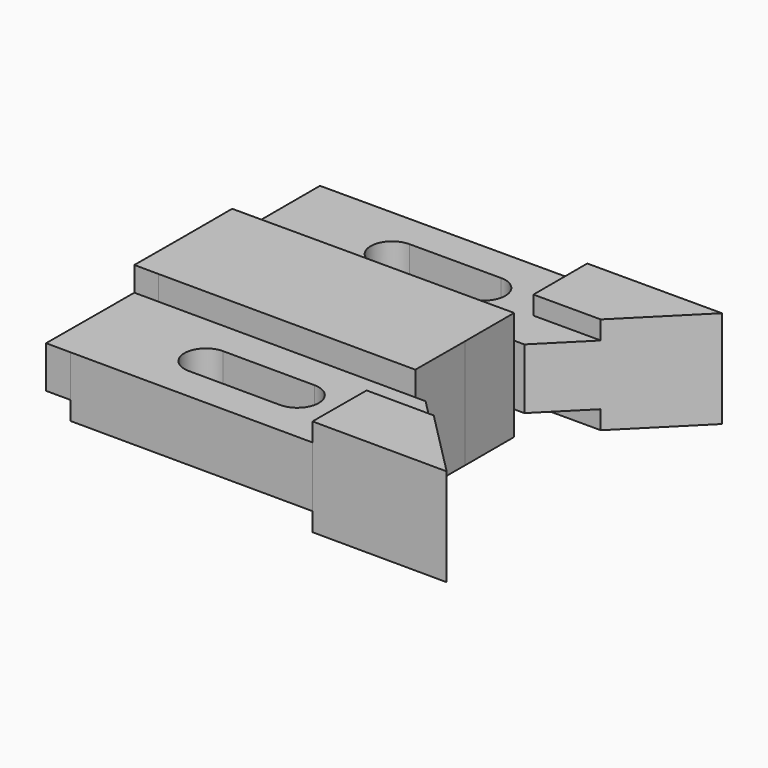
from build123d import *

# Parameters (mm, degrees)
F0_W     = 6.35
F0_H     = 28.575
F1_DEPTH = 28.448
F3_DEPTH = 1.524
F4_DEPTH = 1.524
F5_DEPTH = 6.35
F6_DEPTH = 11.176
F7_DEPTH = 11.176
F2_W     = 6.35
F2_H     = 28.575
F8_DEPTH = 6.35


with BuildPart() as f1:
    # F0 (on Top) → F1 (new body)
    with BuildSketch(Plane.XY):
        Polygon((6.53696, 60.324607), (0.18696, 60.324607), (0.18696, 44.449607), (0.120189, 28.574747), (6.470133, 28.548039), (73.525377, 28.265996), (73.592798, 44.295231), (73.592798, 60.324607), align=None)
        Polygon((69.78296, 88.899607), (6.53696, 88.899607), (6.53696, 60.324607), (73.592798, 60.324607), (76.25996, 60.324607), (87.30896, 71.373607), (69.78296, 71.373607), align=None)
        with BuildLine():
            ThreePointArc((30.41296, 69.024107), (24.82496, 74.612107), (30.41296, 80.200107))
            Line((30.41296, 80.200107), (54.28896, 80.200107))
            ThreePointArc((54.28896, 80.200107), (59.87696, 74.612107), (54.28896, 69.024107))
            Line((54.28896, 69.024107), (30.41296, 69.024107))
        make_face(mode=Mode.SUBTRACT)
        with Locations((3.36196, 74.612107)):
            Rectangle(F0_W, F0_H)
        Polygon((73.525377, 28.265996), (6.470133, 28.548039), (6.349944, -0.026709), (69.595384, -0.292727), (69.6691, 17.233118), (87.194945, 17.159402), (76.192516, 28.254778), align=None)
        with BuildLine():
            Line((54.138112, 8.471865), (30.262323, 8.57229))
            ThreePointArc((30.262323, 8.57229), (24.697876, 14.183744), (30.309331, 19.748191))
            Line((30.309331, 19.748191), (54.185119, 19.647767))
            ThreePointArc((54.185119, 19.647767), (59.749566, 14.036312), (54.138112, 8.471865))
        make_face(mode=Mode.SUBTRACT)
        Polygon((69.6691, 17.233118), (69.595384, -0.292727), (104.647074, -0.440158), (87.194945, 17.159402), align=None)
        Polygon((6.470133, 28.548039), (0.120189, 28.574747), (0, 0), (6.349944, -0.026709), align=None)
        Polygon((104.83496, 88.899607), (69.78296, 88.899607), (69.78296, 71.373607), (87.30896, 71.373607), align=None)
    extrude(amount=F1_DEPTH)

    # F2 (on face) → F3 (cut)
    with BuildSketch(Plane.XY.offset(28.448)):
        Polygon((104.647074, -0.440158), (87.194945, 17.159402), (69.6691, 17.233118), (69.595384, -0.292727), align=None)
        Polygon((69.78296, 71.373607), (87.30896, 71.373607), (104.83496, 88.899607), (69.78296, 88.899607), align=None)
        Polygon((104.647074, -0.440158), (87.194945, 17.159402), (69.6691, 17.233118), (69.595384, -0.292727), align=None)
    extrude(amount=-F3_DEPTH, mode=Mode.SUBTRACT)

    # F0 (on Top) → F4 (cut)
    with BuildSketch(Plane.XY):
        Polygon((69.6691, 17.233118), (69.595384, -0.292727), (104.647074, -0.440158), (87.194945, 17.159402), align=None)
        Polygon((104.83496, 88.899607), (69.78296, 88.899607), (69.78296, 71.373607), (87.30896, 71.373607), align=None)
    extrude(amount=F4_DEPTH, mode=Mode.SUBTRACT)

    # F0 (on Top) → F5 (cut)
    with BuildSketch(Plane.XY):
        Polygon((73.525377, 28.265996), (6.470133, 28.548039), (6.349944, -0.026709), (69.595384, -0.292727), (69.6691, 17.233118), (87.194945, 17.159402), (76.192516, 28.254778), align=None)
        with BuildLine():
            Line((54.138112, 8.471865), (30.262323, 8.57229))
            ThreePointArc((30.262323, 8.57229), (24.697876, 14.183744), (30.309331, 19.748191))
            Line((30.309331, 19.748191), (54.185119, 19.647767))
            ThreePointArc((54.185119, 19.647767), (59.749566, 14.036312), (54.138112, 8.471865))
        make_face(mode=Mode.SUBTRACT)
        Polygon((69.78296, 88.899607), (6.53696, 88.899607), (6.53696, 60.324607), (73.592798, 60.324607), (76.25996, 60.324607), (87.30896, 71.373607), (69.78296, 71.373607), align=None)
        with BuildLine():
            ThreePointArc((30.41296, 69.024107), (24.82496, 74.612107), (30.41296, 80.200107))
            Line((30.41296, 80.200107), (54.28896, 80.200107))
            ThreePointArc((54.28896, 80.200107), (59.87696, 74.612107), (54.28896, 69.024107))
            Line((54.28896, 69.024107), (30.41296, 69.024107))
        make_face(mode=Mode.SUBTRACT)
        Polygon((6.470133, 28.548039), (0.120189, 28.574747), (0, 0), (6.349944, -0.026709), align=None)
        with Locations((3.36196, 74.612107)):
            Rectangle(F0_W, F0_H)
    extrude(amount=F5_DEPTH, mode=Mode.SUBTRACT)

    # F0 (on Top) → F6 (join)
    with BuildSketch(Plane.XY):
        Polygon((6.470133, 28.548039), (0.120189, 28.574747), (0, 0), (6.349944, -0.026709), align=None)
        with Locations((3.36196, 74.612107)):
            Rectangle(F0_W, F0_H)
    extrude(amount=F6_DEPTH)

    # F0 (on Top) → F7 (cut)
    with BuildSketch(Plane.XY):
        Polygon((6.470133, 28.548039), (0.120189, 28.574747), (0, 0), (6.349944, -0.026709), align=None)
        with Locations((3.36196, 74.612107)):
            Rectangle(F0_W, F0_H)
    extrude(amount=F7_DEPTH, mode=Mode.SUBTRACT)

    # F2 (on face) → F8 (cut)
    with BuildSketch(Plane.XY.offset(28.448)):
        Polygon((69.6691, 17.233118), (87.194945, 17.159402), (76.192516, 28.254778), (73.525377, 28.265996), (6.470133, 28.548039), (6.349944, -0.026709), (69.595384, -0.292727), align=None)
        with BuildLine():
            Line((30.309331, 19.748191), (54.185119, 19.647767))
            ThreePointArc((54.185119, 19.647767), (59.749566, 14.036312), (54.138112, 8.471865))
            Line((54.138112, 8.471865), (30.262323, 8.57229))
            ThreePointArc((30.262323, 8.57229), (24.697876, 14.183744), (30.309331, 19.748191))
        make_face(mode=Mode.SUBTRACT)
        Polygon((6.53696, 60.324607), (73.592798, 60.324607), (76.25996, 60.324607), (87.30896, 71.373607), (69.78296, 71.373607), (69.78296, 88.899607), (6.53696, 88.899607), align=None)
        with BuildLine():
            ThreePointArc((30.41296, 69.024107), (24.82496, 74.612107), (30.41296, 80.200107))
            Line((30.41296, 80.200107), (54.28896, 80.200107))
            ThreePointArc((54.28896, 80.200107), (59.87696, 74.612107), (54.28896, 69.024107))
            Line((54.28896, 69.024107), (30.41296, 69.024107))
        make_face(mode=Mode.SUBTRACT)
        Polygon((0, 0), (6.349944, -0.026709), (6.470133, 28.548039), (0.120189, 28.574747), align=None)
        with Locations((3.36196, 74.612107)):
            Rectangle(F2_W, F2_H)
    extrude(amount=-F8_DEPTH, mode=Mode.SUBTRACT)


solid = f1.part
